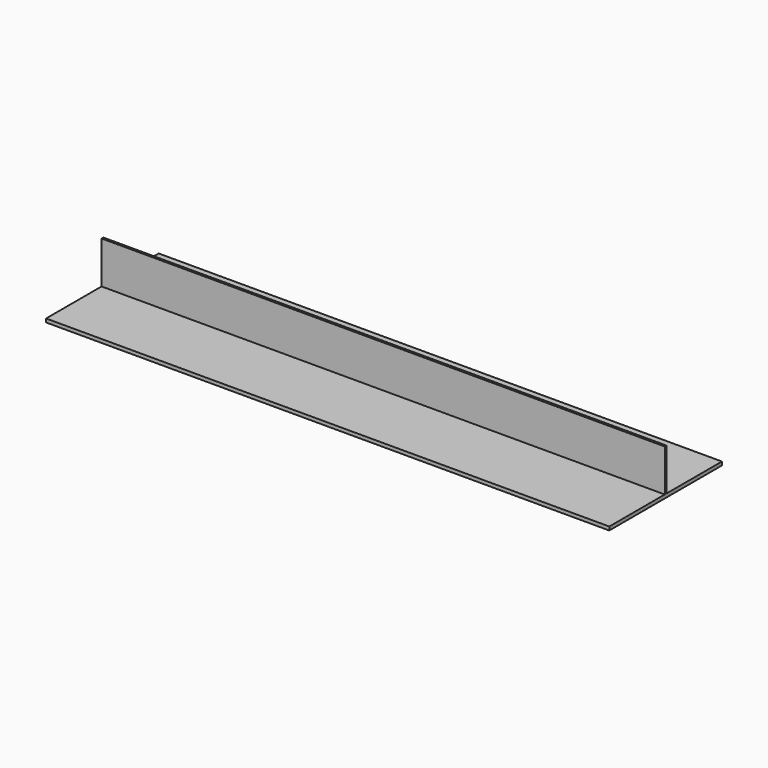
from build123d import *

# Parameters (mm, degrees)
F2_W     = 400
F2_H     = 100
F3_DEPTH = 2.5
F4_W     = 400
F4_H     = 1.5
F5_DEPTH = 30


with BuildPart() as f3:
    # F2 (on Top) → F3 (new body)
    with BuildSketch(Plane.XY):
        Rectangle(F2_W, F2_H)
    extrude(amount=-F3_DEPTH)

    # F4 (on Top) → F5 (join)
    with BuildSketch(Plane.XY):
        Rectangle(F4_W, F4_H)
    extrude(amount=F5_DEPTH)


solid = f3.part
